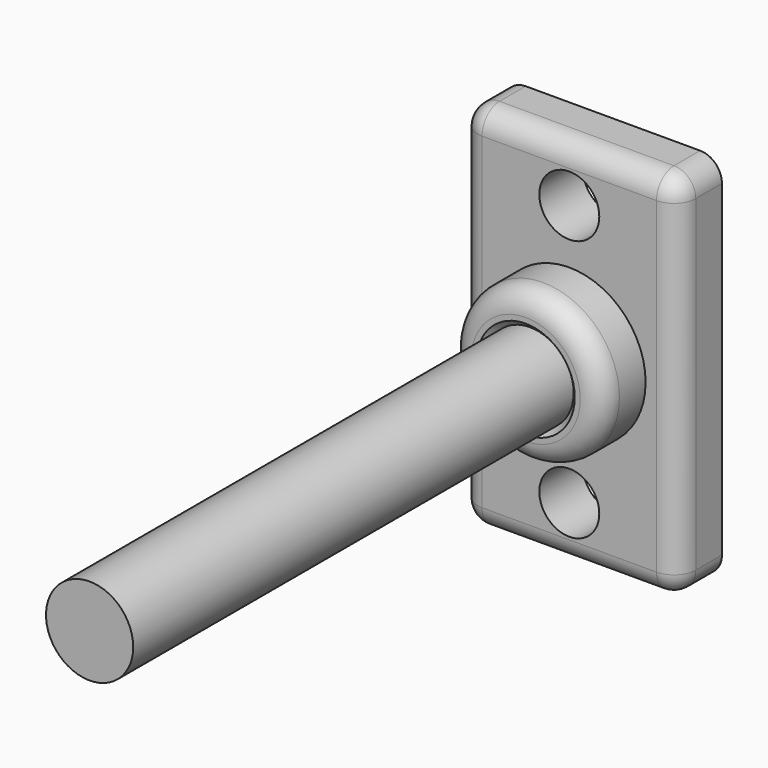
from build123d import *

# Parameters (mm, degrees)
F0_R     = 7
F0_R_2   = 4
F1_DEPTH = 10
F0_R_3   = 2.75
F2_DEPTH = 5
F3_DEPTH = 60
F4_R     = 2
F5_R     = 2
F6_SIZE  = 0.5


with BuildPart() as f1:
    # F0 (on Front) → F1 (new body)
    with BuildSketch(Plane.XZ):
        Circle(F0_R)
        Circle(F0_R_2, mode=Mode.SUBTRACT)
    extrude(amount=F1_DEPTH)

    # F0 (on Front) → F2 (join)
    with BuildSketch(Plane.XZ):
        with BuildLine():
            ThreePointArc((10, 15), (9.4142135624, 16.4142135624), (8, 17))
            Line((8, 17), (-8, 17))
            ThreePointArc((-8, 17), (-9.4142135624, 16.4142135624), (-10, 15))
            Line((-10, 15), (-10, -15))
            ThreePointArc((-10, -15), (-9.4142135624, -16.4142135624), (-8, -17))
            Line((-8, -17), (8, -17))
            ThreePointArc((8, -17), (9.4142135624, -16.4142135624), (10, -15))
            Line((10, -15), (10, 15))
        make_face()
        with Locations((0, -12)):
            Circle(F0_R_3, mode=Mode.SUBTRACT)
        Circle(F0_R, mode=Mode.SUBTRACT)
        with Locations((0, 12)):
            Circle(F0_R_3, mode=Mode.SUBTRACT)
    extrude(amount=F2_DEPTH)

    # F4
    f4_edges = [f1.edges().sort_by_distance(p)[0] for p in [
        (-7, -10, 0),
    ]]
    fillet(f4_edges, radius=F4_R)

    # F5
    f5_edges = [f1.edges().sort_by_distance(p)[0] for p in [
        (10, -5, 0),
    ]]
    fillet(f5_edges, radius=F5_R)

    # F6
    f6_edges = [f1.edges().sort_by_distance(p)[0] for p in [
        (-5, -10, 0),
        (-4, -10, 0),
    ]]
    chamfer(f6_edges, length=F6_SIZE)


with BuildPart() as f3:
    # F0 (on Front) → F3 (new body)
    with BuildSketch(Plane.XZ):
        Circle(F0_R_2)
    extrude(amount=F3_DEPTH)


solid = Compound([f1.part, f3.part])
